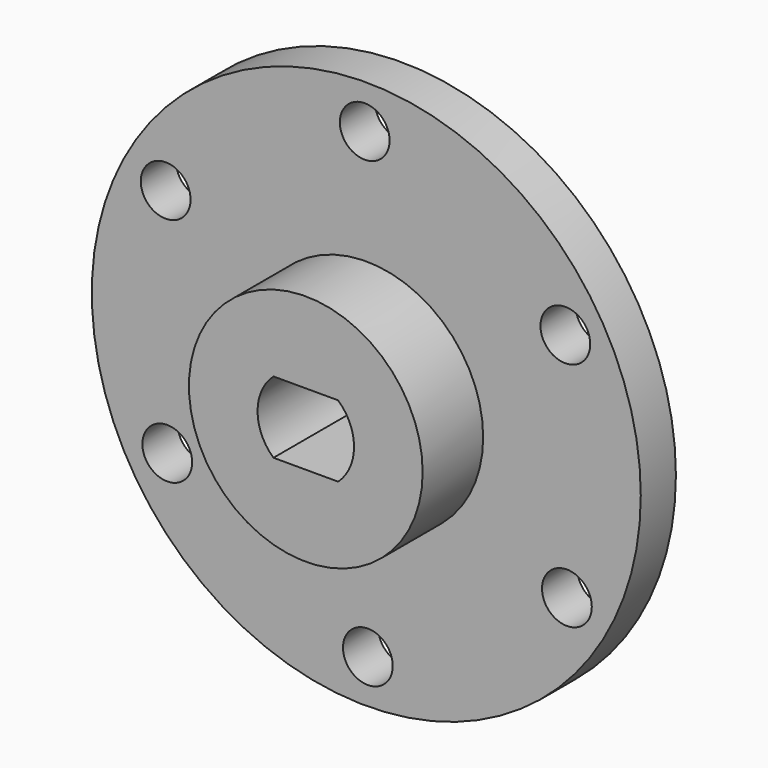
from build123d import *

# Parameters (mm, degrees)
F0_R     = 28.575
F0_R_2   = 2.5908
F0_R_3   = 12.1666
F1_DEPTH = 4.572
F2_DEPTH = 12.446


with BuildPart() as f1:
    # F0 (on Front) → F1 (new body)
    with BuildSketch(Plane.XZ):
        Circle(F0_R)
        with Locations((-20.720995, -12.152161)):
            Circle(F0_R_2, mode=Mode.SUBTRACT)
        with Locations((0.163583, -24.020988)):
            Circle(F0_R_2, mode=Mode.SUBTRACT)
        with Locations((20.884577, -11.868827)):
            Circle(F0_R_2, mode=Mode.SUBTRACT)
        with Locations((-20.884577, 11.868827)):
            Circle(F0_R_2, mode=Mode.SUBTRACT)
        with Locations((-0.163583, 24.020988)):
            Circle(F0_R_2, mode=Mode.SUBTRACT)
        Circle(F0_R_3, mode=Mode.SUBTRACT)
        with Locations((20.720995, 12.152161)):
            Circle(F0_R_2, mode=Mode.SUBTRACT)
    extrude(amount=F1_DEPTH)

    # F0 (on Front) → F2 (join)
    with BuildSketch(Plane.XZ):
        Circle(F0_R_3)
        with BuildLine():
            ThreePointArc((-3.36677, -3.72745), (-5.02285, 0), (-3.36677, 3.72745))
            Line((-3.36677, 3.72745), (3.36677, 3.72745))
            ThreePointArc((3.36677, 3.72745), (5.02285, 0), (3.36677, -3.72745))
            Line((3.36677, -3.72745), (-3.36677, -3.72745))
        make_face(mode=Mode.SUBTRACT)
    extrude(amount=F2_DEPTH)


solid = f1.part
